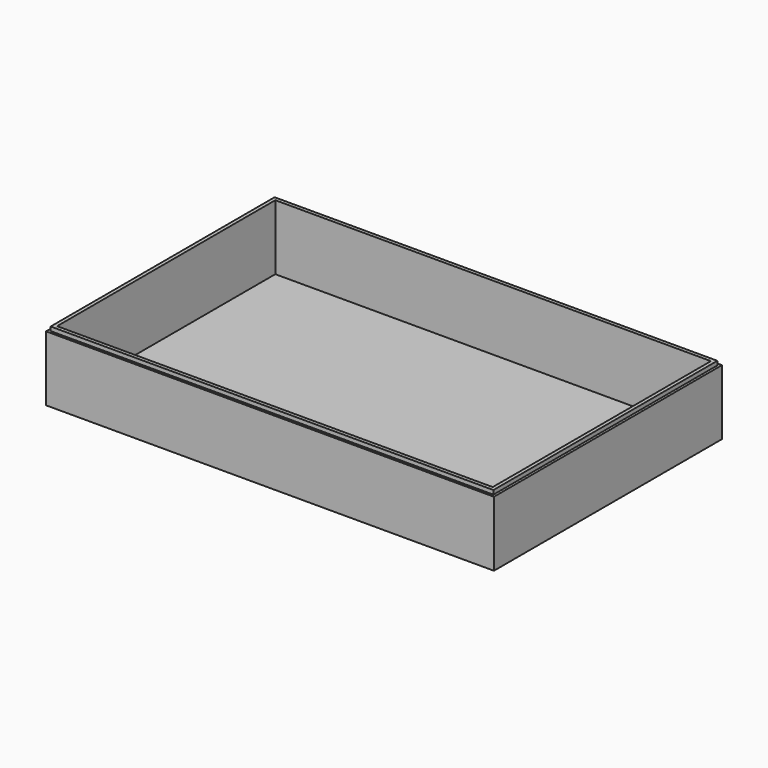
from build123d import *

# Parameters (mm, degrees)
F0_W     = 220
F0_H     = 140
F1_DEPTH = 2
F2_W     = 220
F2_H     = 140
F2_W_2   = 214
F2_H_2   = 134
F3_DEPTH = 30
F4_W     = 217.5
F4_H     = 137.5
F4_W_2   = 214
F4_H_2   = 134
F5_DEPTH = 2


with BuildPart() as f1:
    # F0 (on Top) → F1 (new body)
    with BuildSketch(Plane.XY):
        Rectangle(F0_W, F0_H)
    extrude(amount=F1_DEPTH)

    # F2 (on face) → F3 (join)
    with BuildSketch(Plane.XY.offset(2)):
        Rectangle(F2_W, F2_H)
        Rectangle(F2_W_2, F2_H_2, mode=Mode.SUBTRACT)
    extrude(amount=F3_DEPTH)

    # F4 (on face) → F5 (join)
    with BuildSketch(Plane.XY.offset(32)):
        Rectangle(F4_W, F4_H)
        Rectangle(F4_W_2, F4_H_2, mode=Mode.SUBTRACT)
    extrude(amount=F5_DEPTH)


solid = f1.part
